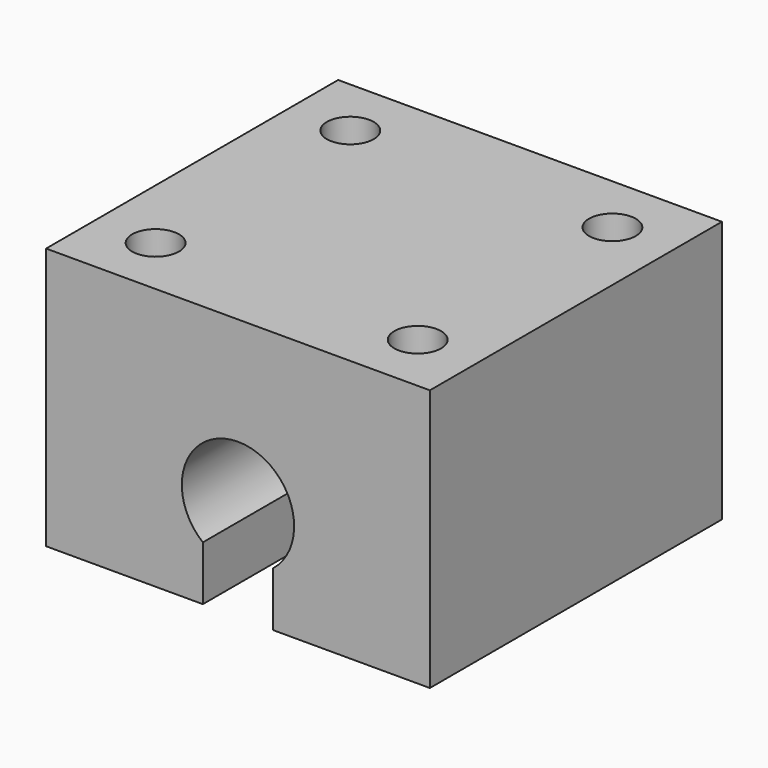
from build123d import *

# Parameters (mm, degrees)
SKETCH_W        = 41
SKETCH_H        = 28
PAD_DEPTH       = 39
POCKET_DEPTH    = 39.001
SKETCH002_R     = 2.5
POCKET001_DEPTH = 10


with BuildPart() as part:
    # Sketch → Pad (new body)
    with BuildSketch(Plane.XZ):
        with Locations((20.5, 14)):
            Rectangle(SKETCH_W, SKETCH_H)
    extrude(amount=-PAD_DEPTH)

    # Sketch001 → Pocket (cut, through all)
    with BuildSketch(Plane.XZ):
        with BuildLine():
            ThreePointArc((24.25, 5.816252), (20.5, 16.5), (16.75, 5.816252))
            Line((16.75, 5.816252), (16.75, 0))
            Line((16.75, 0), (24.25, 0))
            Line((24.25, 5.816252), (24.25, 0))
        make_face()
    extrude(amount=-POCKET_DEPTH, mode=Mode.SUBTRACT)

    # Sketch002 → Pocket001 (cut)
    with BuildSketch(Plane(origin=(0, 0, 28), x_dir=(-1, 0, 0), z_dir=(0, 0, 1))):
        with Locations((-34.5, -6.5)):
            Circle(SKETCH002_R)
        with Locations((-6.5, -6.5)):
            Circle(SKETCH002_R)
        with Locations((-34.5, -32.5)):
            Circle(SKETCH002_R)
        with Locations((-6.5, -32.5)):
            Circle(SKETCH002_R)
    extrude(amount=-POCKET001_DEPTH, mode=Mode.SUBTRACT)


solid = part.part
